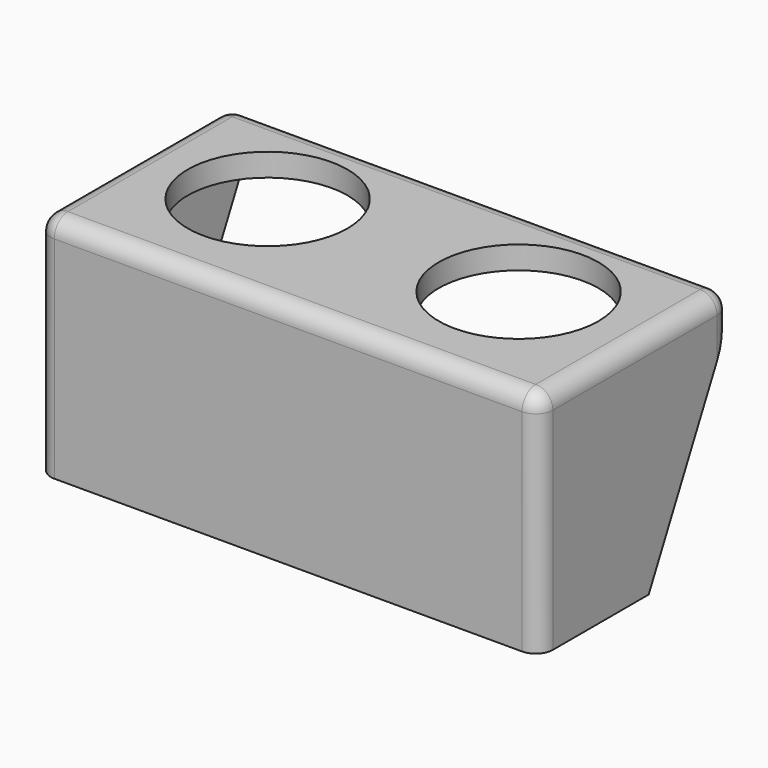
from build123d import *

# Parameters (mm, degrees)
SKETCH_W        = 88
SKETCH_H        = 42
PAD_DEPTH       = 40
SKETCH001_W     = 80
SKETCH001_H     = 42.719318
POCKET_DEPTH    = 36
SKETCH002_R     = 14
POCKET001_DEPTH = 5
SKETCH003_W     = 20
SKETCH003_H     = 4
PAD001_DEPTH    = 80
SKETCH004_R     = 2.25
POCKET002_DEPTH = 5
POCKET003_DEPTH = 88.001
FILLET_R        = 3


with BuildPart() as part:
    # Sketch → Pad (new body)
    with BuildSketch(Plane.XY):
        with Locations((0, 17)):
            Rectangle(SKETCH_W, SKETCH_H)
    extrude(amount=PAD_DEPTH)

    # Sketch001 → Pocket (cut)
    with BuildSketch(Plane(origin=(0, 0, 0), x_dir=(1, 0, 0), z_dir=(0, 0, -1))):
        with Locations((0, -21.359659)):
            Rectangle(SKETCH001_W, SKETCH001_H)
    extrude(amount=-POCKET_DEPTH, mode=Mode.SUBTRACT)

    # Sketch002 → Pocket001 (cut)
    with BuildSketch(Plane.XY.offset(40)):
        with Locations((-22, 19)):
            Circle(SKETCH002_R)
        with Locations((22, 19)):
            Circle(SKETCH002_R)
    extrude(amount=-POCKET001_DEPTH, mode=Mode.SUBTRACT)

    # Sketch003 → Pad001 (new body)
    with BuildSketch(Plane(origin=(40, 0, 0), x_dir=(0, -1, 0), z_dir=(-1, 0, 0))):
        with Locations((-10, 2)):
            Rectangle(SKETCH003_W, SKETCH003_H)
    extrude(amount=PAD001_DEPTH)

    # Sketch004 → Pocket002 (cut)
    with BuildSketch(Plane(origin=(0, 0, 0), x_dir=(1, 0, 0), z_dir=(0, 0, -1))):
        with Locations((-22, -10)):
            Circle(SKETCH004_R)
        with Locations((22, -10)):
            Circle(SKETCH004_R)
    extrude(amount=-POCKET002_DEPTH, mode=Mode.SUBTRACT)

    # Sketch006 → Pocket003 (cut, through all)
    with BuildSketch(Plane.YZ.offset(44)):
        Polygon((20, 0), (38, 36), (38, 0), align=None)
    extrude(amount=-POCKET003_DEPTH, mode=Mode.SUBTRACT)

    # Fillet
    fillet_edges = [part.edges().sort_by_distance(p)[0] for p in [
        (-44, 17, 40),
        (0, 38, 40),
        (44, 17, 40),
        (0, -4, 40),
        (44, -4, 20),
        (-44, -4, 20),
        (44, 38, 38),
        (-44, 38, 38),
    ]]
    fillet(fillet_edges, radius=FILLET_R)


solid = part.part
